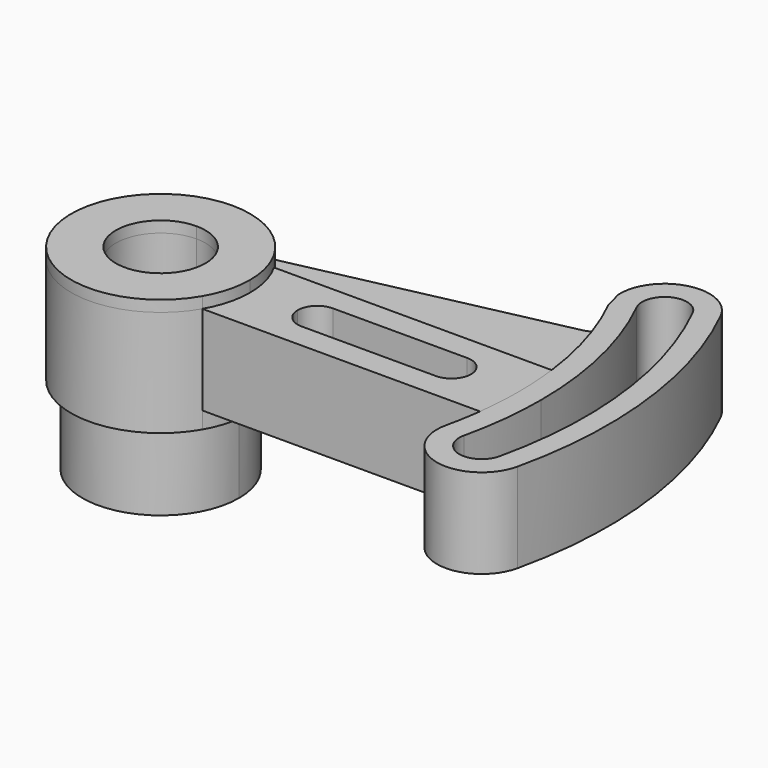
from build123d import *

# Parameters (mm, degrees)
F1_DEPTH      = 3.175
F1_DEPTH_BACK = 30.1498
F2_DEPTH      = 25.4
F3_DEPTH      = 25.4
F4_START      = -7.9248
F4_DEPTH      = 9.8298
F5_DEPTH      = 52.3748


with BuildPart() as f1:
    # F0 (on Top) → F1 (new body, two sides)
    with BuildSketch(Plane.XY) as f1_sk:
        with BuildLine():
            Line((-22.225, 0), (-19.05, 0))
            ThreePointArc((-19.05, 0), (-19.9154840123, 6.5740037456), (-22.4529547439, 12.7))
            ThreePointArc((-22.4529547439, 12.7), (-31.75, 21.9970452561), (-44.45, 25.4))
            Line((-44.45, 25.4), (-44.45, 22.225))
            ThreePointArc((-44.45, 22.225), (-28.7345517881, 15.7154482119), (-22.225, 0))
        make_face()
        with BuildLine():
            ThreePointArc((-22.4529547439, -12.7), (-19.9154840123, -6.5740037456), (-19.05, 0))
            Line((-19.05, 0), (-22.225, 0))
            ThreePointArc((-22.225, 0), (-60.1654482119, -15.7154482119), (-44.45, 22.225))
            Line((-44.45, 22.225), (-44.45, 25.4))
            ThreePointArc((-44.45, 25.4), (-66.4470452561, -12.7), (-22.4529547439, -12.7))
        make_face()
        with BuildLine():
            ThreePointArc((-44.45, 22.225), (-60.1654482119, -15.7154482119), (-22.225, 0))
            Line((-22.225, 0), (-31.75, 0))
            ThreePointArc((-31.75, 0), (-53.4302561211, -8.9802561211), (-44.45, 12.7))
            Line((-44.45, 12.7), (-44.45, 22.225))
        make_face()
        with BuildLine():
            Line((-31.75, 0), (-22.225, 0))
            ThreePointArc((-22.225, 0), (-28.7345517881, 15.7154482119), (-44.45, 22.225))
            Line((-44.45, 22.225), (-44.45, 12.7))
            ThreePointArc((-44.45, 12.7), (-35.4697438789, 8.9802561211), (-31.75, 0))
        make_face()
    extrude(amount=F1_DEPTH)
    extrude(f1_sk.sketch, amount=-F1_DEPTH_BACK)



with BuildPart() as f2:
    # F0 (on Top) → F2 (new body)
    with BuildSketch(Plane.XY):
        with BuildLine():
            ThreePointArc((46.5639319141, 45.1555555556), (52.8217153018, 29.3389400327), (56.3531249516, 12.7))
            ThreePointArc((56.3531249516, 12.7), (56.9505855384, 6.3624879144), (57.15, 0))
            ThreePointArc((57.15, 0), (56.9505855384, -6.3624879144), (56.3531249516, -12.7))
            ThreePointArc((56.3531249516, -12.7), (55.6033339134, -17.6604182514), (54.6095979732, -22.5777777778))
            ThreePointArc((54.6095979732, -22.5777777778), (64.1698254977, -37.7824497467), (79.3744974665, -28.2222222222))
            ThreePointArc((79.3744974665, -28.2222222222), (81.6634026015, 14.9803098855), (69.3174148927, 56.4444444444))
            ThreePointArc((69.3174148927, 56.4444444444), (54.7801695925, 63.1004559127), (45.25211394, 50.2610577545))
            Line((45.25211394, 50.2610577545), (46.5639319141, 45.1555555556))
        make_face()
        with BuildLine():
            ThreePointArc((60.8008228466, -23.9888888889), (62.823083358, -12.0701320149), (63.5, 0))
            ThreePointArc((63.5, 0), (60.6504663929, 24.6392870025), (52.2523026588, 47.9777777778))
            ThreePointArc((52.2523026588, 47.9777777778), (55.1184511812, 56.4883707446), (63.629044148, 53.6222222222))
            ThreePointArc((63.629044148, 53.6222222222), (75.3577324715, 14.2312943912), (73.1832725932, -26.8111111111))
            ThreePointArc((73.1832725932, -26.8111111111), (65.5809366088, -31.5912248733), (60.8008228466, -23.9888888889))
        make_face(mode=Mode.SUBTRACT)
    extrude(amount=-F2_DEPTH)


with BuildPart() as f1_1:
    add(f1.part)

    add(f2.part)  # F3 merges F2
    # F0 (on Top) → F3 (join)
    with BuildSketch(Plane.XY):
        with BuildLine():
            Line((-5.5499, 0), (-19.05, 0))
            ThreePointArc((-19.05, 0), (-19.9154840123, -6.5740037456), (-22.4529547439, -12.7))
            Line((-22.4529547439, -12.7), (0, -12.7))
            Line((0, -12.7), (0, -5.5499))
            ThreePointArc((0, -5.5499), (-3.9243719249, -3.9243719249), (-5.5499, 0))
        make_face()
        with BuildLine():
            ThreePointArc((-22.4529547439, 12.7), (-19.9154840123, 6.5740037456), (-19.05, 0))
            Line((-19.05, 0), (-5.5499, 0))
            ThreePointArc((-5.5499, 0), (-3.9243719249, 3.9243719249), (0, 5.5499))
            Line((0, 5.5499), (0, 12.7))
            Line((0, 12.7), (-22.4529547439, 12.7))
        make_face()
        with BuildLine():
            Line((0, 12.7), (0, 5.5499))
            Line((0, 5.5499), (38.1, 5.5499))
            ThreePointArc((38.1, 5.5499), (42.0243719249, 3.9243719249), (43.6499, 0))
            Line((43.6499, 0), (57.15, 0))
            ThreePointArc((57.15, 0), (56.9505855384, 6.3624879144), (56.3531249516, 12.7))
            Line((56.3531249516, 12.7), (0, 12.7))
        make_face()
        with BuildLine():
            Line((38.1, -5.5499), (0, -5.5499))
            Line((0, -5.5499), (0, -12.7))
            Line((0, -12.7), (56.3531249516, -12.7))
            ThreePointArc((56.3531249516, -12.7), (56.9505855384, -6.3624879144), (57.15, 0))
            Line((57.15, 0), (43.6499, 0))
            ThreePointArc((43.6499, 0), (42.0243719249, -3.9243719249), (38.1, -5.5499))
        make_face()
    extrude(amount=-F3_DEPTH)

    # F0 (on Top) → F4 (join)
    with BuildSketch(Plane.XY.offset(F4_START)):
        with BuildLine():
            ThreePointArc((-44.45, 25.4), (-31.75, 21.9970452561), (-22.4529547439, 12.7))
            Line((-22.4529547439, 12.7), (0, 12.7))
            Line((0, 12.7), (56.3531249516, 12.7))
            ThreePointArc((56.3531249516, 12.7), (52.8217153018, 29.3389400327), (46.5639319141, 45.1555555556))
            Line((46.5639319141, 45.1555555556), (45.25211394, 50.2610577545))
            ThreePointArc((45.25211394, 50.2610577545), (43.9347743486, 46.1118478743), (40.2548039053, 43.7860912739))
            Line((40.2548039053, 43.7860912739), (-44.45, 25.4))
        make_face()
    extrude(amount=-F4_DEPTH)

    # F0 (on Top) → F5 (join)
    with BuildSketch(Plane.XY):
        with BuildLine():
            ThreePointArc((-44.45, 22.225), (-60.1654482119, -15.7154482119), (-22.225, 0))
            Line((-22.225, 0), (-31.75, 0))
            ThreePointArc((-31.75, 0), (-53.4302561211, -8.9802561211), (-44.45, 12.7))
            Line((-44.45, 12.7), (-44.45, 22.225))
        make_face()
        with BuildLine():
            Line((-31.75, 0), (-22.225, 0))
            ThreePointArc((-22.225, 0), (-28.7345517881, 15.7154482119), (-44.45, 22.225))
            Line((-44.45, 22.225), (-44.45, 12.7))
            ThreePointArc((-44.45, 12.7), (-35.4697438789, 8.9802561211), (-31.75, 0))
        make_face()
    extrude(amount=-F5_DEPTH)


solid = f1_1.part
